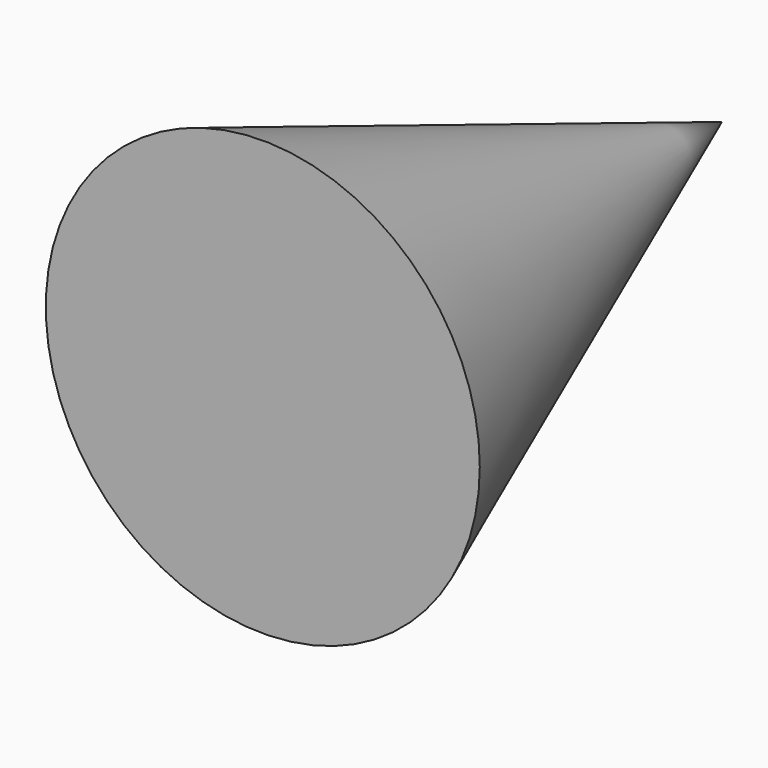
from build123d import *


with BuildPart() as f1:
    # F0 (on Top) → F1 (revolve)
    with BuildSketch(Plane.XY):
        Polygon((0, 59.365351), (0, 0), (22.447186, 0), align=None)
    revolve(axis=Axis((0, 29.682675, 0), (0, 1, 0)))


solid = f1.part
